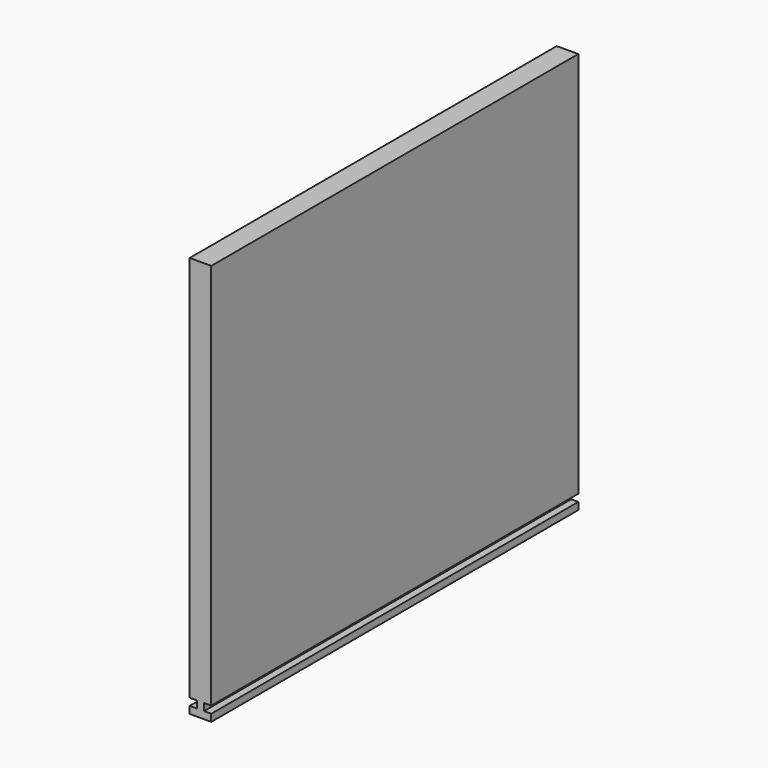
from build123d import *

# Parameters (mm, degrees)
F0_W     = 406.4
F0_H     = 355.6
F1_DEPTH = 9.525
F2_W     = 6.35
F2_H     = 6.35
F3_DEPTH = 254


with BuildPart() as f1:
    # F0 (on Right) → F1 (new body, symmetric)
    with BuildSketch(Plane.YZ):
        Rectangle(F0_W, F0_H)
    extrude(amount=F1_DEPTH, both=True)

    # F2 (on Front) → F3 (cut, symmetric)
    with BuildSketch(Plane.XZ):
        with Locations((-6.35, -168.275)):
            Rectangle(F2_W, F2_H)
        with Locations((6.35, -168.275)):
            Rectangle(F2_W, F2_H)
    extrude(amount=F3_DEPTH, both=True, mode=Mode.SUBTRACT)


solid = f1.part
